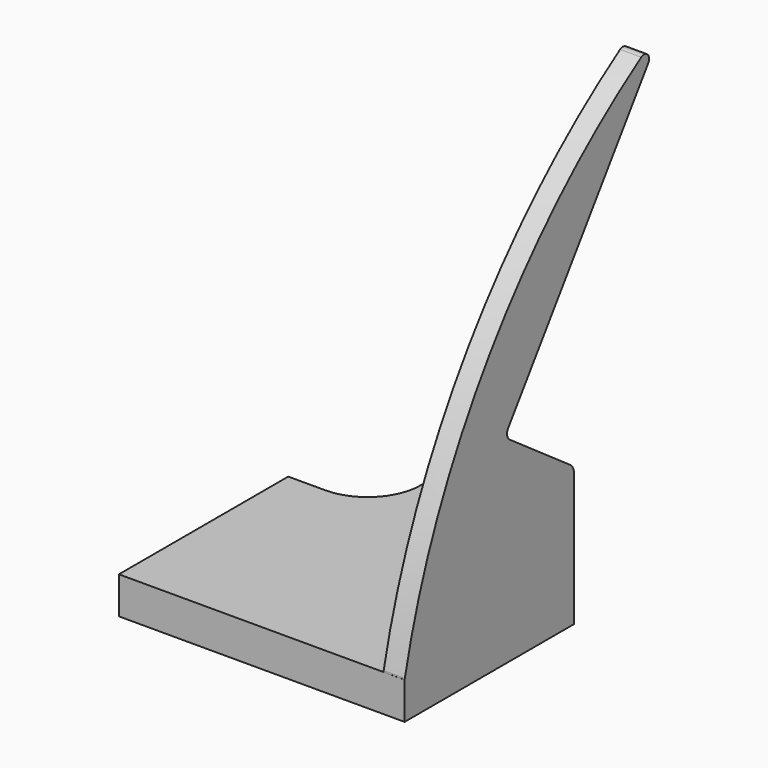
from build123d import *

# Parameters (mm, degrees)
F1_DEPTH = 7
F2_R     = 10
F5_DEPTH = 4


with BuildPart() as f1:
    # F0 (on Top) → F1 (new body)
    with BuildSketch(Plane.XY):
        Polygon((-27, -20), (27, -20), (27, 20), (10, 20), (10, 40), (-10, 40), (-10, 20), (-27, 20), align=None)
    extrude(amount=F1_DEPTH)

    # F2
    f2_edges = [f1.edges().sort_by_distance(p)[0] for p in [
        (10, 20, 3.5),
        (-10, 20, 3.5),
    ]]
    fillet(f2_edges, radius=F2_R)

    # F4 (on offset) → F5 (join)
    with BuildSketch(Plane.YZ.offset(23)):
        with BuildLine():
            Line((-19.987991, 7), (20, 7))
            Line((20, 7), (20, 25.208094))
            ThreePointArc((20, 25.208094), (19.774022, 26.131591), (19.147153, 26.846398))
            Line((19.147153, 26.846398), (4.845687, 36.860392))
            ThreePointArc((4.845687, 36.860392), (4.22884, 37.828648), (4.477324, 38.949485))
            Line((4.477324, 38.949485), (37.542201, 86.171024))
            ThreePointArc((37.542201, 86.171024), (37.421504, 87.69386), (35.903428, 87.864272))
            ThreePointArc((35.903428, 87.864272), (0.076045, 53.010837), (-19.952304, 7.215329))
            ThreePointArc((-19.952304, 7.215329), (-19.973087, 7.108152), (-19.987991, 7))
        make_face()
    extrude(amount=F5_DEPTH)


solid = f1.part
